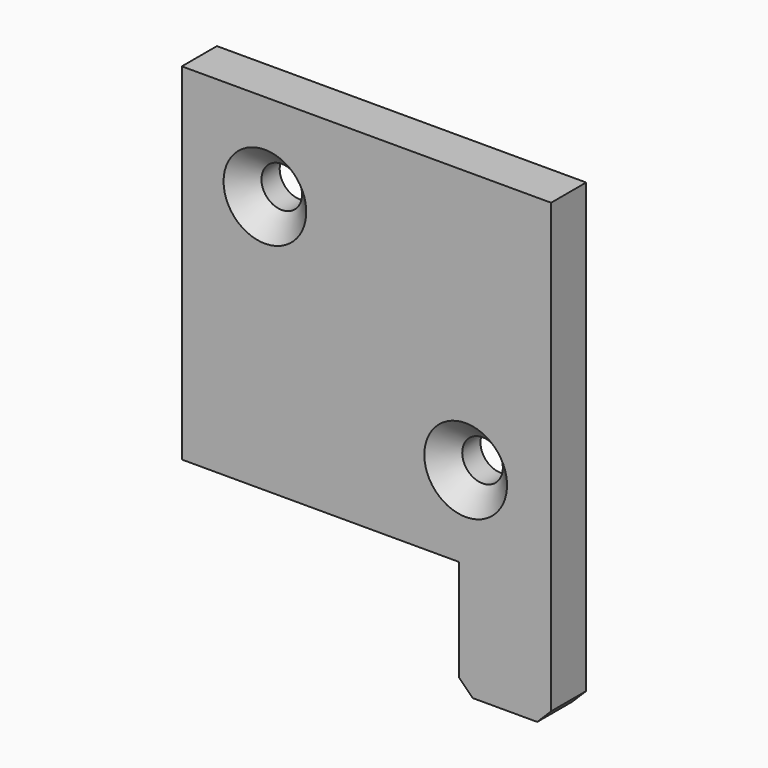
from build123d import *

# Parameters (mm, degrees)
F1_DEPTH       = 9.5
F3_D           = 8.8
F3_CSINK_D     = 17.92
F3_CSINK_ANGLE = 90
F4_SIZE        = 3


with BuildPart() as f1:
    # F0 (on Front) → F1 (new body)
    with BuildSketch(Plane.XZ):
        Polygon((0, -100), (0, 0), (-80, 0), (-80, -75), (-20, -75), (-20, -100), align=None)
    extrude(amount=F1_DEPTH)

    # F3 (through all)
    with Locations(Plane.XZ.offset(9.5)):
        with Locations((-62, -19), (-18.5, -57)):
            CounterSinkHole(F3_D / 2, F3_CSINK_D / 2, counter_sink_angle=F3_CSINK_ANGLE)

    # F4
    f4_edges = [f1.edges().sort_by_distance(p)[0] for p in [
        (-20, -4.75, -100),
        (0, -4.75, -100),
    ]]
    chamfer(f4_edges, length=F4_SIZE)


solid = f1.part
